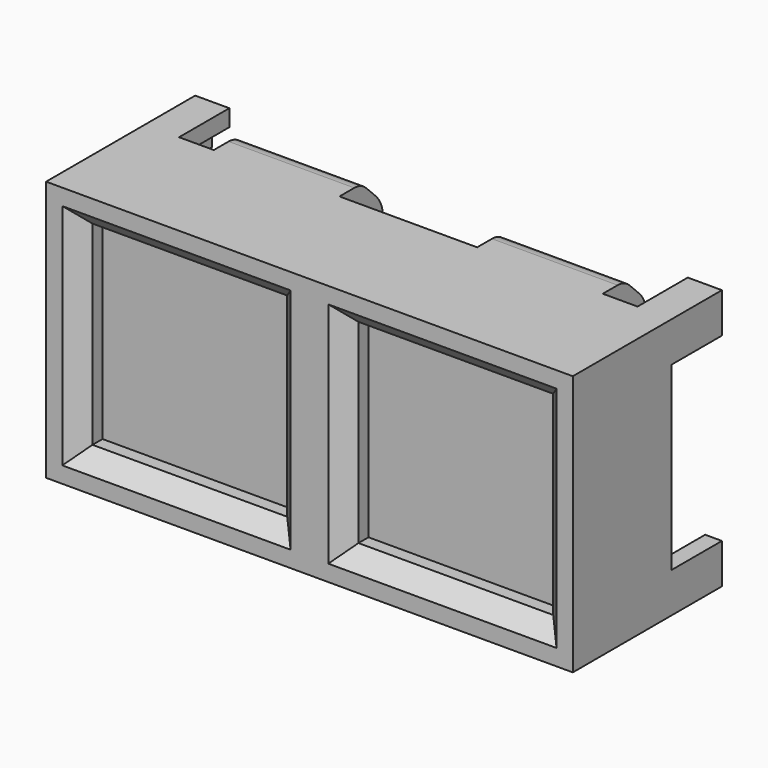
from build123d import *

# Parameters (mm, degrees)
SKETCH_W        = 25.15
SKETCH_H        = 12.45
PAD_DEPTH       = 5.9
SKETCH001_W     = 9.3
SKETCH001_H     = 9.3
POCKET_DEPTH    = 1.4
CHAMFER_SIZE    = 0.8
PAD003_DEPTH    = 3
SKETCH007_W     = 6
SKETCH007_H     = 3
PAD004_DEPTH    = 2.6
SKETCH008_R     = 1.5
PAD005_DEPTH    = 2
FILLET_R        = 0.5
CHAMFER003_SIZE = 1.3
FILLET001_R     = 1.5
FILLET002_R     = 1
SKETCH009_W     = 6
SKETCH009_H     = 1.6
POCKET001_DEPTH = 1.8
SKETCH010_W     = 6
SKETCH010_H     = 1.6
POCKET002_DEPTH = 1.8
SKETCH011_W     = 1.6
SKETCH011_H     = 6
POCKET003_DEPTH = 1.8


with BuildPart() as part:
    # Sketch → Pad (new body)
    with BuildSketch(Plane.XZ):
        Rectangle(SKETCH_W, SKETCH_H)
    extrude(amount=PAD_DEPTH)

    # Sketch001 (on Face6 of Pad) → Pocket (cut)
    with BuildSketch(Plane.XZ.offset(5.9)):
        with Locations((-6.35, 0)):
            Rectangle(SKETCH001_W, SKETCH001_H)
        with Locations((6.35, 0)):
            Rectangle(SKETCH001_W, SKETCH001_H)
    extrude(amount=-POCKET_DEPTH, mode=Mode.SUBTRACT)

    # Chamfer
    chamfer_edges = [part.edges().sort_by_distance(p)[0] for p in [
        (-6.35, -5.9, 4.65),
        (-11, -5.9, 0),
        (-6.35, -5.9, -4.65),
        (-1.7, -5.9, 0),
        (1.7, -5.9, 0),
        (6.35, -5.9, 4.65),
        (11, -5.9, 0),
        (6.35, -5.9, -4.65),
    ]]
    chamfer(chamfer_edges, length=CHAMFER_SIZE)

    # Sketch006 (on Face18 of Chamfer) → Pad003 (join)
    with BuildSketch(Plane(origin=(0, 0, 0), x_dir=(1, 0, 0), z_dir=(0, 1, 0))):
        Polygon((12.575, -4.315), (12.575, -6.225), (10.945, -6.225), (10.945, -5.425), (11.775, -5.425), (11.775, -4.315), align=None)
        Polygon((-10.945, -6.225), (-12.575, -6.225), (-12.575, -4.315), (-11.775, -4.315), (-11.775, -5.425), (-10.945, -5.425), align=None)
        Polygon((12.575, 4.315), (12.575, 6.225), (10.945, 6.225), (10.945, 5.425), (11.775, 5.425), (11.775, 4.315), align=None)
        Polygon((-11.775, 4.315), (-11.775, 5.425), (-10.945, 5.425), (-10.945, 6.225), (-12.575, 6.225), (-12.575, 4.315), align=None)
    extrude(amount=PAD003_DEPTH)

    # Sketch007 (on Face19 of Pad003) → Pad004 (join)
    with BuildSketch(Plane(origin=(0, 0, 0), x_dir=(1, 0, 0), z_dir=(0, 1, 0))):
        with Locations((-6.2875, 4.725)):
            Rectangle(SKETCH007_W, SKETCH007_H)
        with Locations((6.2875, 4.725)):
            Rectangle(SKETCH007_W, SKETCH007_H)
        with Locations((-6.2875, -4.725)):
            Rectangle(SKETCH007_W, SKETCH007_H)
        with Locations((6.2875, -4.725)):
            Rectangle(SKETCH007_W, SKETCH007_H)
    extrude(amount=PAD004_DEPTH)

    # Sketch008 (on Face19 of Pad004) → Pad005 (join)
    with BuildSketch(Plane(origin=(0, 0, 0), x_dir=(1, 0, 0), z_dir=(0, 1, 0))):
        Circle(SKETCH008_R)
    extrude(amount=PAD005_DEPTH)

    # Fillet
    fillet_edges = [part.edges().sort_by_distance(p)[0] for p in [
        (-1.5, 2, 0),
    ]]
    fillet(fillet_edges, radius=FILLET_R)

    # Chamfer003
    chamfer003_edges = [part.edges().sort_by_distance(p)[0] for p in [
        (6.2875, 2.6, -6.225),
        (-6.2875, 2.6, -6.225),
        (6.2875, 2.6, 6.225),
        (-6.2875, 2.6, 6.225),
    ]]
    chamfer(chamfer003_edges, length=CHAMFER003_SIZE)

    # Fillet001
    fillet001_edges = [part.edges().sort_by_distance(p)[0] for p in [
        (-6.2875, 2.6, 4.925),
        (6.2875, 2.6, 4.925),
        (-6.2875, 2.6, -4.925),
        (6.2875, 2.6, -4.925),
    ]]
    fillet(fillet001_edges, radius=FILLET001_R)

    # Fillet002
    fillet002_edges = [part.edges().sort_by_distance(p)[0] for p in [
        (6.2875, 1.3, -6.225),
        (-6.2875, 1.3, -6.225),
        (6.2875, 1.3, 6.225),
        (-6.2875, 1.3, 6.225),
    ]]
    fillet(fillet002_edges, radius=FILLET002_R)

    # Sketch009 (on Face22 of Fillet002) → Pocket001 (cut)
    with BuildSketch(Plane(origin=(0, 0, 3.225), x_dir=(1, 0, 0), z_dir=(0, 0, -1))):
        with Locations((-6.2875, -0.8)):
            Rectangle(SKETCH009_W, SKETCH009_H)
    extrude(amount=-POCKET001_DEPTH, mode=Mode.SUBTRACT)

    # Sketch010 (on Face25 of Pocket001) → Pocket002 (cut)
    with BuildSketch(Plane(origin=(0, 0, 3.225), x_dir=(1, 0, 0), z_dir=(0, 0, -1))):
        with Locations((6.2875, -0.8)):
            Rectangle(SKETCH010_W, SKETCH010_H)
    extrude(amount=-POCKET002_DEPTH, mode=Mode.SUBTRACT)

    # Sketch011 (on DatumPlane) → Pocket003 (cut)
    with BuildSketch(Plane(origin=(0, 1.3, -3.225), x_dir=(0, 1, 0), z_dir=(0, 0, 1))):
        with Locations((-0.5, 6.2875)):
            Rectangle(SKETCH011_W, SKETCH011_H)
        with Locations((-0.5, -6.2875)):
            Rectangle(SKETCH011_W, SKETCH011_H)
    extrude(amount=-POCKET003_DEPTH, mode=Mode.SUBTRACT)


solid = part.part
